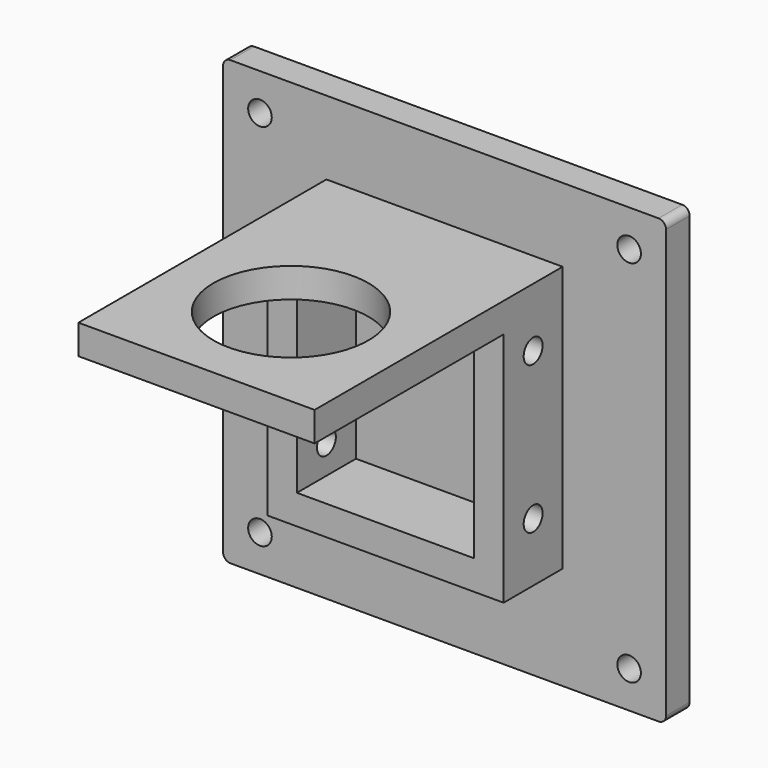
from build123d import *

# Parameters (mm, degrees)
SKETCH002_R     = 1.6
PAD002_DEPTH    = 4
SKETCH007_W     = 32
SKETCH007_H     = 36
SKETCH007_W_2   = 24
SKETCH007_H_2   = 28
PAD006_DEPTH    = 10
SKETCH008_R     = 1.6
POCKET_DEPTH    = 46.001
SKETCH020_W     = 32
SKETCH020_H     = 4
PAD015_DEPTH    = 32
SKETCH021_R     = 10.5
POCKET004_DEPTH = 5


with BuildPart() as part:
    # Sketch002 → Pad002 (new body)
    with BuildSketch(Plane.XZ):
        with BuildLine():
            Line((-29, 50), (29, 50))
            ThreePointArc((30, 49), (29.707107, 49.707107), (29, 50))
            Line((30, 49), (30, -9))
            ThreePointArc((29, -10), (29.707107, -9.707107), (30, -9))
            Line((29, -10), (-29, -10))
            ThreePointArc((-30, -9), (-29.707107, -9.707107), (-29, -10))
            Line((-30, -9), (-30, 49))
            ThreePointArc((-29, 50), (-29.707107, 49.707107), (-30, 49))
        make_face()
        with Locations((-25, -5)):
            Circle(SKETCH002_R, mode=Mode.SUBTRACT)
        with Locations((-25, 45)):
            Circle(SKETCH002_R, mode=Mode.SUBTRACT)
        with Locations((25, 45)):
            Circle(SKETCH002_R, mode=Mode.SUBTRACT)
        with Locations((25, -5)):
            Circle(SKETCH002_R, mode=Mode.SUBTRACT)
    extrude(amount=-PAD002_DEPTH)

    # Sketch007 (on Face13 of Pad002) → Pad006 (join)
    with BuildSketch(Plane.XZ):
        with Locations((0, 22)):
            Rectangle(SKETCH007_W, SKETCH007_H)
        with Locations((0, 22)):
            Rectangle(SKETCH007_W_2, SKETCH007_H_2, mode=Mode.SUBTRACT)
    extrude(amount=PAD006_DEPTH)

    # Sketch008 (on Face17 of Pad006) → Pocket (cut, through all)
    with BuildSketch(Plane(origin=(-16, 0, 0), x_dir=(0, 0, -1), z_dir=(-1, 0, 0))):
        with Locations((-32, 5)):
            Circle(SKETCH008_R)
        with Locations((-12, 5)):
            Circle(SKETCH008_R)
    extrude(amount=-POCKET_DEPTH, mode=Mode.SUBTRACT)

    # Sketch020 (on Face19 of Pocket) → Pad015 (join)
    with BuildSketch(Plane.XZ.offset(10)):
        with Locations((0, 38)):
            Rectangle(SKETCH020_W, SKETCH020_H)
    extrude(amount=PAD015_DEPTH)

    # Sketch021 (on Face19 of Pad015) → Pocket004 (cut)
    with BuildSketch(Plane(origin=(0, 0, 40), x_dir=(-1, 0, 0), z_dir=(0, 0, 1))):
        with Locations((0, 26)):
            Circle(SKETCH021_R)
    extrude(amount=-POCKET004_DEPTH, mode=Mode.SUBTRACT)


solid = part.part
